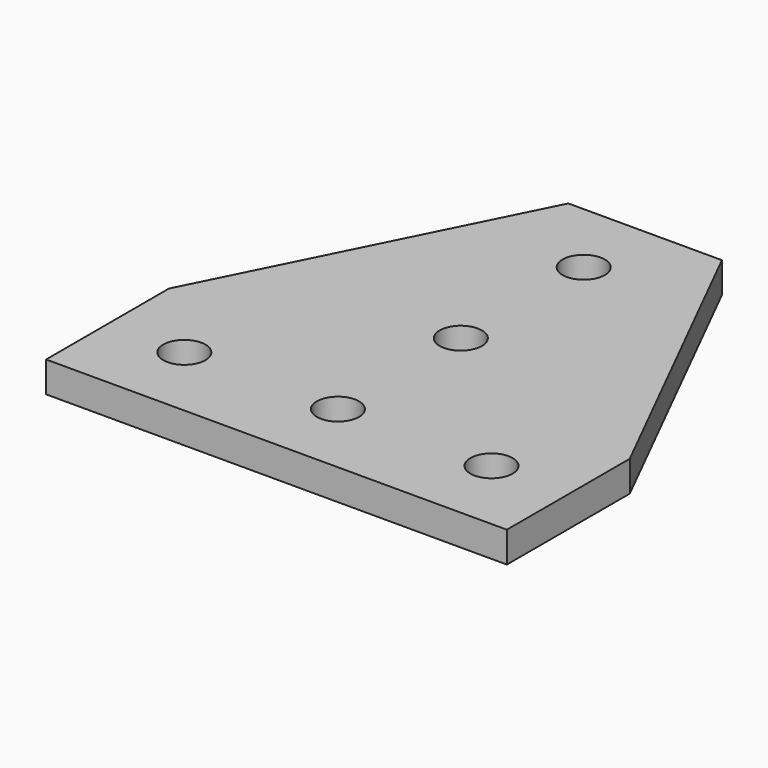
from build123d import *

# Parameters (mm, degrees)
F0_R     = 2.75
F1_DEPTH = 4


with BuildPart() as f1:
    # F0 (on Top) → F1 (new body)
    with BuildSketch(Plane.XY):
        Polygon((-30, 20), (-30, 0), (30, 0), (30, 20), (10, 60), (-10, 60), align=None)
        with Locations((-20, 10)):
            Circle(F0_R, mode=Mode.SUBTRACT)
        with Locations((0, 10)):
            Circle(F0_R, mode=Mode.SUBTRACT)
        with Locations((20, 10)):
            Circle(F0_R, mode=Mode.SUBTRACT)
        with Locations((0, 30)):
            Circle(F0_R, mode=Mode.SUBTRACT)
        with Locations((0, 50)):
            Circle(F0_R, mode=Mode.SUBTRACT)
    extrude(amount=F1_DEPTH)


solid = f1.part
